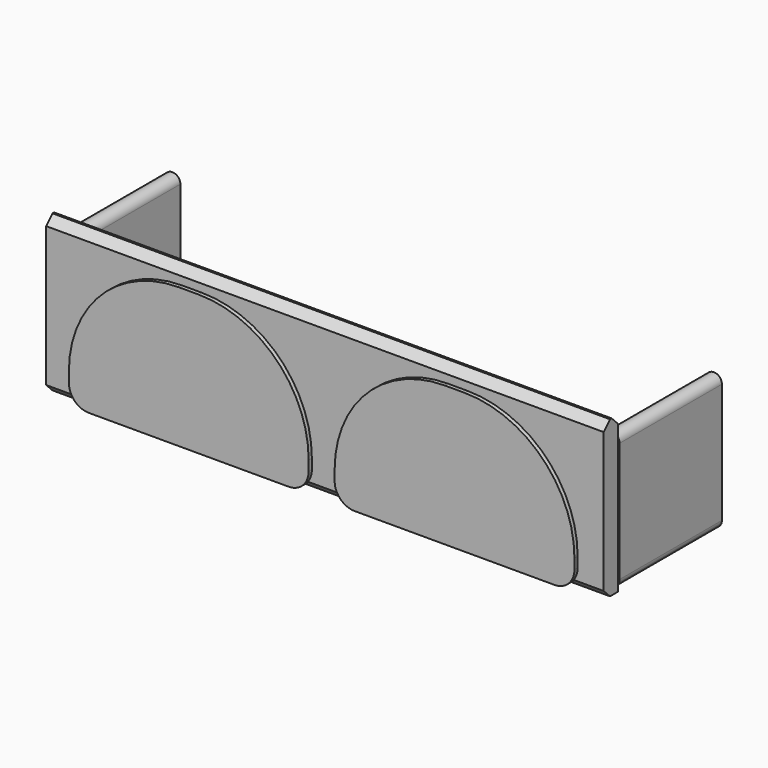
from build123d import *

# Parameters (mm, degrees)
BOX027_W               = 120
BOX027_H               = 10
BOX027_DEPTH           = 70
FILLET025_1_R          = 55
FILLET025_2_R          = 10
BOX028_W               = 120
BOX028_H               = 10
BOX028_DEPTH           = 70
FILLET026_1_R          = 55
FILLET026_2_R          = 10
CYLINDER021_R          = 4
CYLINDER021_DEPTH      = 64
CYLINDER021_ROLL_ANGLE = 90
BOX029_W               = 8
BOX029_H               = 64
BOX029_DEPTH           = 60
CYLINDER_R             = 4
CYLINDER_DEPTH         = 64
CYLINDER_ROLL_ANGLE    = 90
CYLINDER023_R          = 4
CYLINDER023_DEPTH      = 64
CYLINDER023_ROLL_ANGLE = 90
BOX030_W               = 8
BOX030_H               = 64
BOX030_DEPTH           = 60
CYLINDER022_R          = 4
CYLINDER022_DEPTH      = 64
CYLINDER022_ROLL_ANGLE = 90
BOX007_W               = 279
BOX007_H               = 9
BOX007_DEPTH           = 78
CHAMFER_SIZE           = 4


with BuildPart() as fillet025:
    # Box027 → Box027 (new body)
    with BuildSketch(Plane(origin=(15, -38, 5), x_dir=(1, 0, 0), z_dir=(0, 0, 1))):
        with Locations((60, 5)):
            Rectangle(BOX027_W, BOX027_H)
    extrude(amount=BOX027_DEPTH)

    # Fillet025 1
    fillet025_1_edges = [fillet025.edges().sort_by_distance(p)[0] for p in [
        (15, -33, 75),
        (135, -33, 75),
    ]]
    fillet(fillet025_1_edges, radius=FILLET025_1_R)

    # Fillet025 2
    fillet025_2_edges = [fillet025.edges().sort_by_distance(p)[0] for p in [
        (15, -33, 5),
        (135, -33, 5),
    ]]
    fillet(fillet025_2_edges, radius=FILLET025_2_R)


with BuildPart() as fillet026:
    # Box028 → Box028 (new body)
    with BuildSketch(Plane(origin=(148, -38, 5), x_dir=(1, 0, 0), z_dir=(0, 0, 1))):
        with Locations((60, 5)):
            Rectangle(BOX028_W, BOX028_H)
    extrude(amount=BOX028_DEPTH)

    # Fillet026 1
    fillet026_1_edges = [fillet026.edges().sort_by_distance(p)[0] for p in [
        (148, -33, 75),
        (268, -33, 75),
    ]]
    fillet(fillet026_1_edges, radius=FILLET026_1_R)

    # Fillet026 2
    fillet026_2_edges = [fillet026.edges().sort_by_distance(p)[0] for p in [
        (148, -33, 5),
        (268, -33, 5),
    ]]
    fillet(fillet026_2_edges, radius=FILLET026_2_R)


with BuildPart() as cylinder021:
    # Cylinder021 → Cylinder021 (new body)
    with BuildSketch(Plane.XY):
        Circle(CYLINDER021_R)
    extrude(amount=CYLINDER021_DEPTH)


with BuildPart() as cylinder021_1:
    # Cylinder021 roll: moved
    add(cylinder021.part.rotate(Axis((0, 0, 0), (1, 0, 0)), CYLINDER021_ROLL_ANGLE))


with BuildPart() as cylinder021_2:
    # Cylinder021 placement: moved
    add(cylinder021_1.part.moved(Location((6, 38, 70))))


with BuildPart() as cube016:
    # Box029 → Box029 (new body)
    with BuildSketch(Plane(origin=(2, -26, 10), x_dir=(1, 0, 0), z_dir=(0, 0, 1))):
        with Locations((4, 32)):
            Rectangle(BOX029_W, BOX029_H)
    extrude(amount=BOX029_DEPTH)


with BuildPart() as fusion013:
    # Cylinder → Cylinder (new body)
    with BuildSketch(Plane.XY):
        Circle(CYLINDER_R)
    extrude(amount=CYLINDER_DEPTH)


with BuildPart() as fusion013_1:
    # Cylinder roll: moved
    add(fusion013.part.rotate(Axis((0, 0, 0), (1, 0, 0)), CYLINDER_ROLL_ANGLE))


with BuildPart() as fusion013_2:
    # Cylinder placement: moved
    add(fusion013_1.part.moved(Location((6, 38, 10))))

    # Fusion013: union Cylinder021, Cube016
    add(cylinder021_2.part)
    add(cube016.part)


with BuildPart() as cylinder023:
    # Cylinder023 → Cylinder023 (new body)
    with BuildSketch(Plane.XY):
        Circle(CYLINDER023_R)
    extrude(amount=CYLINDER023_DEPTH)


with BuildPart() as cylinder023_1:
    # Cylinder023 roll: moved
    add(cylinder023.part.rotate(Axis((0, 0, 0), (1, 0, 0)), CYLINDER023_ROLL_ANGLE))


with BuildPart() as cylinder023_2:
    # Cylinder023 placement: moved
    add(cylinder023_1.part.moved(Location((4, 38, 70))))


with BuildPart() as cube017:
    # Box030 → Box030 (new body)
    with BuildSketch(Plane(origin=(0, -26, 10), x_dir=(1, 0, 0), z_dir=(0, 0, 1))):
        with Locations((4, 32)):
            Rectangle(BOX030_W, BOX030_H)
    extrude(amount=BOX030_DEPTH)


with BuildPart() as fusion014:
    # Cylinder022 → Cylinder022 (new body)
    with BuildSketch(Plane.XY):
        Circle(CYLINDER022_R)
    extrude(amount=CYLINDER022_DEPTH)


with BuildPart() as fusion014_1:
    # Cylinder022 roll: moved
    add(fusion014.part.rotate(Axis((0, 0, 0), (1, 0, 0)), CYLINDER022_ROLL_ANGLE))


with BuildPart() as fusion014_2:
    # Cylinder022 placement: moved
    add(fusion014_1.part.moved(Location((4, 38, 10))))

    # Fusion014: union Cylinder023, Cube017
    add(cylinder023_2.part)
    add(cube017.part)


with BuildPart() as fusion014_3:
    # Fusion014 placement: moved
    add(fusion014_2.part.moved(Location((273, 0, 0))))


with BuildPart() as fusion015:
    # Box007 → Box007 (new body)
    with BuildSketch(Plane(origin=(2, -36, 5), x_dir=(1, 0, 0), z_dir=(0, 0, 1))):
        with Locations((139.5, 4.5)):
            Rectangle(BOX007_W, BOX007_H)
    extrude(amount=BOX007_DEPTH)

    # Chamfer
    chamfer_edges = [fusion015.edges().sort_by_distance(p)[0] for p in [
        (141.5, -36, 5),
        (141.5, -36, 83),
        (141.5, -27, 83),
    ]]
    chamfer(chamfer_edges, length=CHAMFER_SIZE)

    # Fusion015: union Fillet025, Fillet026, Fusion013, Fusion014
    add(fillet025.part)
    add(fillet026.part)
    add(fusion013_2.part)
    add(fusion014_3.part)


solid = fusion015.part
